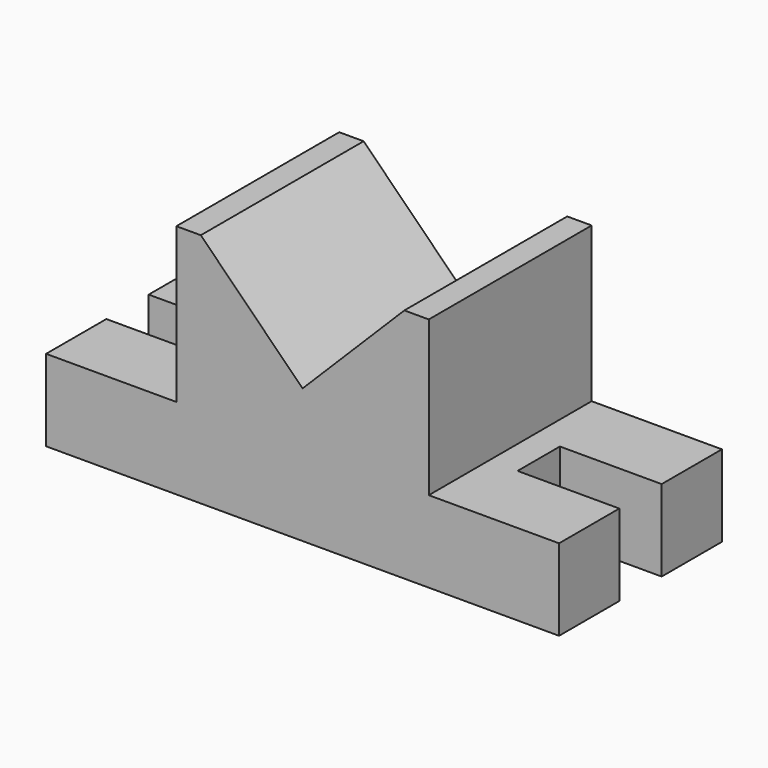
from build123d import *

# Parameters (mm, degrees)
F1_DEPTH = 25
F2_W     = 31.581489
F2_H     = 47.974935
F3_DEPTH = 6.5


with BuildPart() as f1:
    # F0 (on Front) → F1 (new body, symmetric)
    with BuildSketch(Plane.XZ):
        Polygon((0, 33), (0, 0), (63, 0), (63, 20), (31, 20), (31, 58), (25, 58), align=None)
    extrude(amount=F1_DEPTH, both=True)

    # F2 (on Front) → F3 (cut, symmetric)
    with BuildSketch(Plane.XZ):
        with Locations((53.790744, 10.887097)):
            Rectangle(F2_W, F2_H)
    extrude(amount=F3_DEPTH, both=True, mode=Mode.SUBTRACT)

    # F4: F1 across plane


with BuildPart() as f1_1:
    add(f1.part)
    add(f1.part.mirror(Plane.YZ))


solid = f1_1.part
